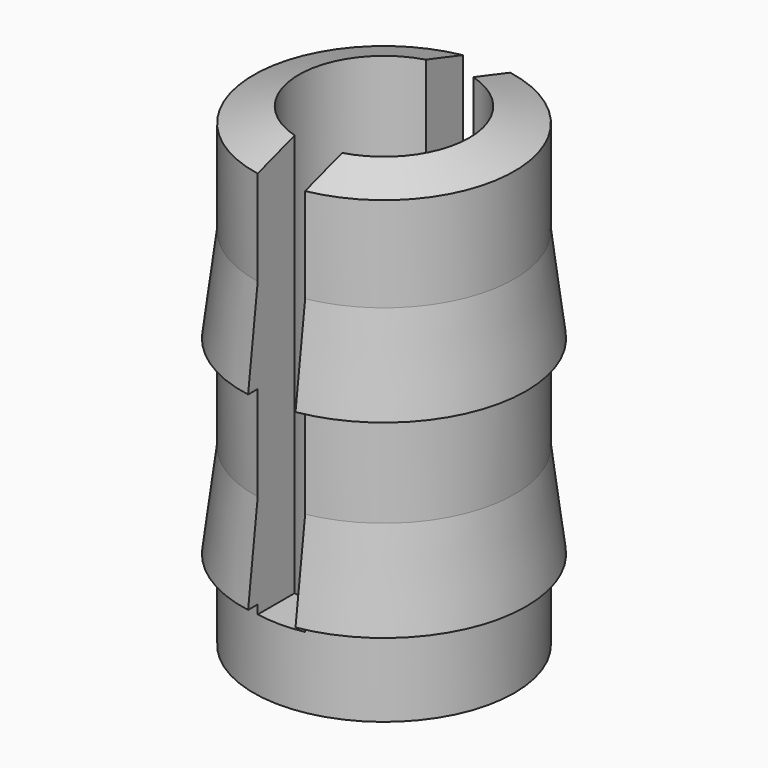
from build123d import *

# Parameters (mm, degrees)
F3_DEPTH = 12.5


with BuildPart() as f1:
    # F0 (on Front) → F1 (revolve)
    with BuildSketch(Plane.XZ):
        Polygon((2.75, 9.6877501001), (1.8, 10), (1.8, 0), (2.75, 0), (2.75, 1.6877501001), (3, 1.6877501001), (2.75, 3.6877501001), (2.75, 5.6877501001), (3, 5.6877501001), (2.75, 7.6877501001), align=None)
    revolve(axis=Axis((0, 0, 0.3669395117), (0, 0, -1)))

    # F2 (on Front) → F3 (cut, symmetric)
    with BuildSketch(Plane.XZ):
        Polygon((0.5, 10), (-0.5, 10), (-0.5, 1.5), (0, 1.5), (0.5, 1.5), align=None)
    extrude(amount=F3_DEPTH, both=True, mode=Mode.SUBTRACT)


solid = f1.part
